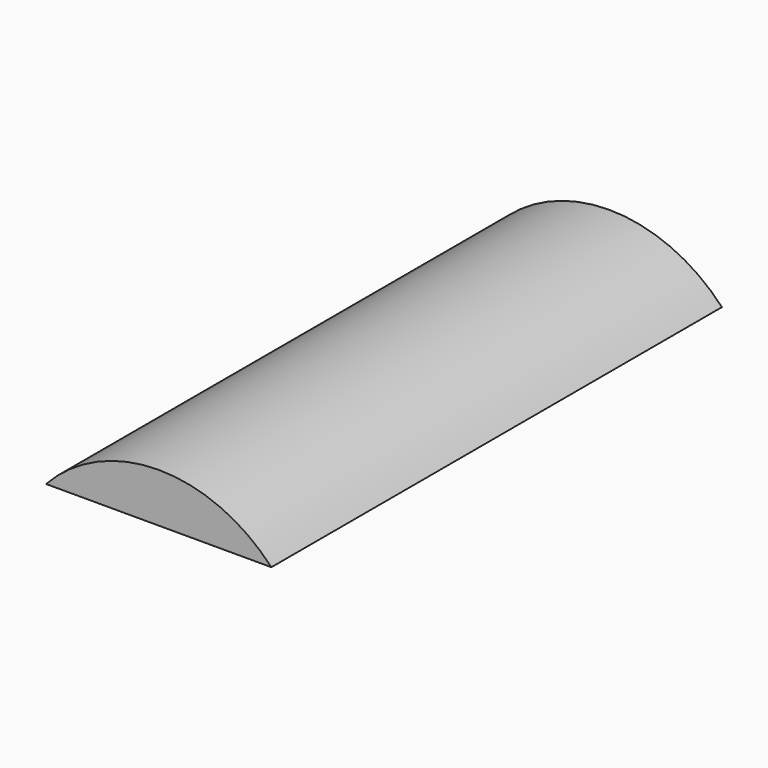
from build123d import *

# Parameters (mm, degrees)
F1_DEPTH = 75


with BuildPart() as f1:
    # F0 (on Front) → F1 (new body, symmetric)
    with BuildSketch(Plane.XZ):
        with BuildLine():
            ThreePointArc((38.2768984139, -29.2690265924), (8.2768984139, -16.1883357414), (-21.7231015861, -29.2690265924))
            Line((-21.7231015861, -29.2690265924), (38.2768984139, -29.2690265924))
        make_face()
    extrude(amount=F1_DEPTH, both=True)


solid = f1.part
